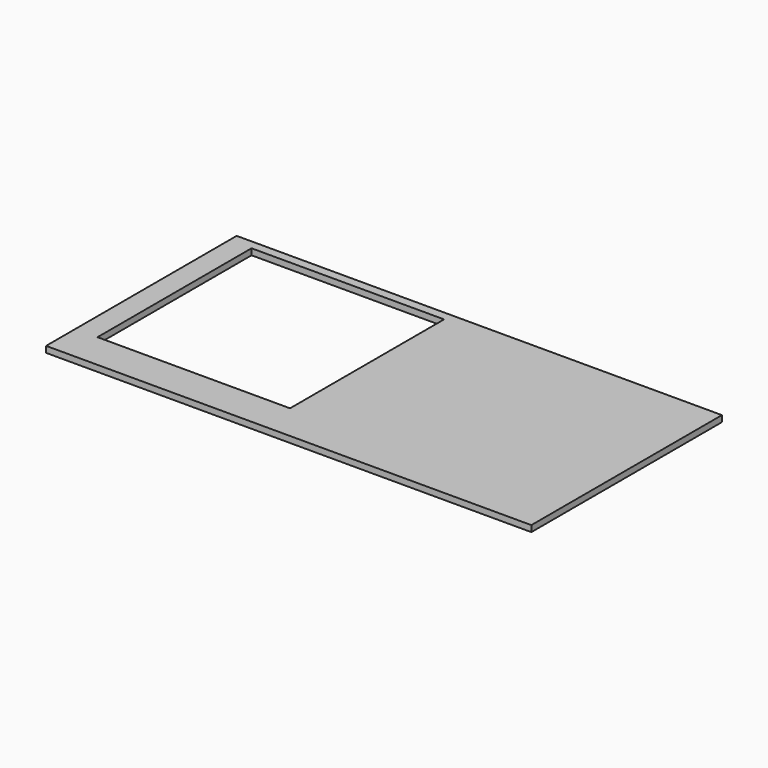
from build123d import *

# Parameters (mm, degrees)
F0_W     = 1487
F0_H     = 730
F1_DEPTH = 19
F2_W     = 590
F2_H     = 590
F3_DEPTH = 25


with BuildPart() as f1:
    # F0 (on Top) → F1 (new body)
    with BuildSketch(Plane.XY):
        with Locations((680.093257, 323.24419)):
            Rectangle(F0_W, F0_H)
    extrude(amount=F1_DEPTH)

    # F2 (on Top) → F3 (cut)
    with BuildSketch(Plane.XY):
        with Locations((299.593257, 365.24419)):
            Rectangle(F2_W, F2_H)
    extrude(amount=F3_DEPTH, mode=Mode.SUBTRACT)


solid = f1.part
